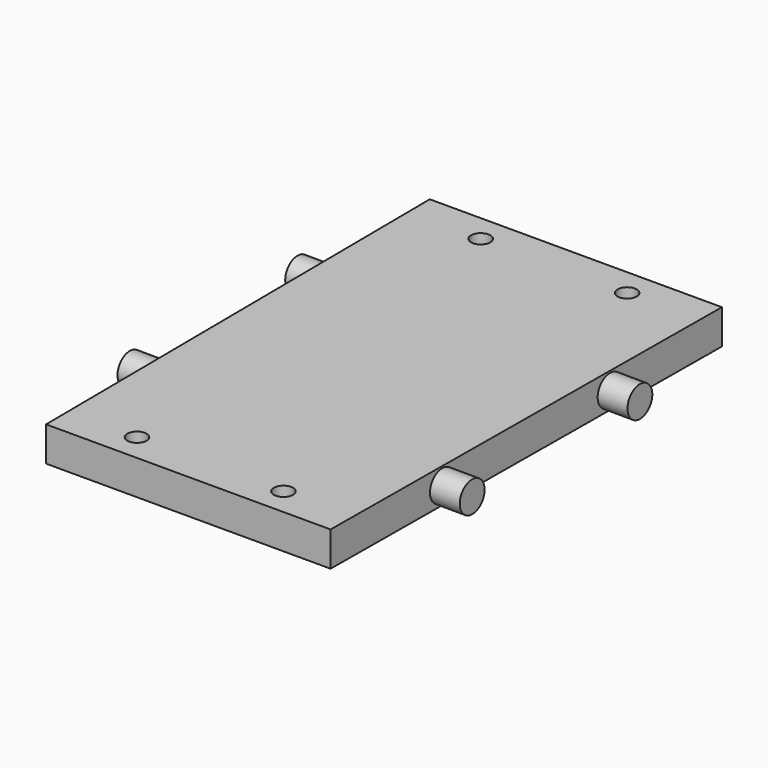
from build123d import *

# Parameters (mm, degrees)
F0_R          = 1.25
F1_DEPTH      = 4.5
F3_R          = 2
F4_DEPTH      = 3.9
F4_DEPTH_BACK = 40.9


with BuildPart() as f1:
    # F0 (on Top) → F1 (new body)
    with BuildSketch(Plane.XY):
        Polygon((19, 31.5), (-19, 31.5), (-18.5, -31.5), (18.5, -31.5), align=None)
        with Locations((-9.525, -27.94)):
            Circle(F0_R, mode=Mode.SUBTRACT)
        with Locations((9.525, -27.94)):
            Circle(F0_R, mode=Mode.SUBTRACT)
        with Locations((-9.525, 27.94)):
            Circle(F0_R, mode=Mode.SUBTRACT)
        with Locations((9.525, 27.94)):
            Circle(F0_R, mode=Mode.SUBTRACT)
    extrude(amount=F1_DEPTH)

    # F3 (on offset) → F4 (join, two sides)
    with BuildSketch(Plane(origin=(18.7488190464, -0.1488001512, 0), x_dir=(0.007936258, 0.9999685074, 0), z_dir=(0.9999685074, -0.007936258, 0))) as f4_sk:
        with Locations((13.6478127895, 2.25)):
            Circle(F3_R)
        with Locations((-13.3521872105, 2.25)):
            Circle(F3_R)
    extrude(amount=F4_DEPTH)
    extrude(f4_sk.sketch, amount=-F4_DEPTH_BACK)


solid = f1.part
